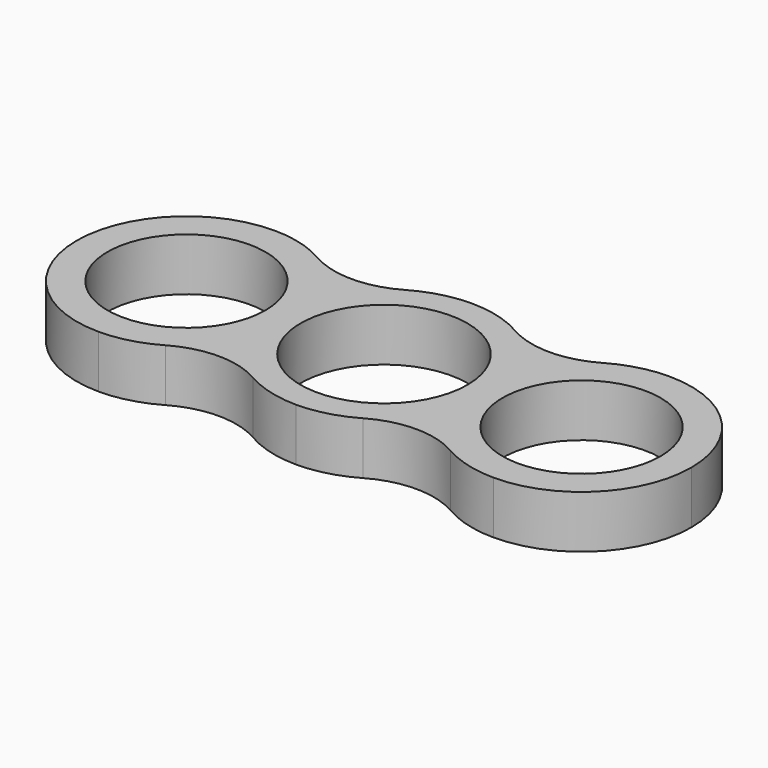
from build123d import *

# Parameters (mm, degrees)
F0_R     = 9
F0_R_2   = 9.5
F1_DEPTH = 3
F3_DEPTH = 6.001


with BuildPart() as f1:
    # F0 (on Top) → F1 (new body, symmetric)
    with BuildSketch(Plane.XY):
        with BuildLine():
            Line((22.5, 12.5), (-22.5, 12.5))
            ThreePointArc((-22.5, 12.5), (-31.338835, 8.838835), (-35, 0))
            ThreePointArc((-35, 0), (-31.338835, -8.838835), (-22.5, -12.5))
            Line((-22.5, -12.5), (22.5, -12.5))
            ThreePointArc((22.5, -12.5), (31.338835, -8.838835), (35, 0))
            ThreePointArc((35, 0), (31.338835, 8.838835), (22.5, 12.5))
        make_face()
        with Locations((-22.5, 0)):
            Circle(F0_R, mode=Mode.SUBTRACT)
        Circle(F0_R_2, mode=Mode.SUBTRACT)
        with Locations((22.5, 0)):
            Circle(F0_R, mode=Mode.SUBTRACT)
    extrude(amount=F1_DEPTH, both=True)

    # F2 (on face) → F3 (cut, through all)
    with BuildSketch(Plane.XY.offset(3)):
        with BuildLine():
            Line((22.5, 12.5), (0, 12.5))
            ThreePointArc((0, 12.5), (3.235238, 12.074073), (6.25, 10.825318))
            ThreePointArc((6.25, 10.825318), (11.25, 9.485572), (16.25, 10.825318))
            ThreePointArc((16.25, 10.825318), (19.264762, 12.074073), (22.5, 12.5))
        make_face()
        with BuildLine():
            ThreePointArc((-22.5, 12.5), (-19.264762, 12.074073), (-16.25, 10.825318))
            ThreePointArc((-16.25, 10.825318), (-11.25, 9.485572), (-6.25, 10.825318))
            ThreePointArc((-6.25, 10.825318), (-3.235238, 12.074073), (0, 12.5))
            Line((0, 12.5), (-22.5, 12.5))
        make_face()
        with BuildLine():
            ThreePointArc((6.25, -10.825318), (3.235238, -12.074073), (0, -12.5))
            Line((0, -12.5), (22.5, -12.5))
            ThreePointArc((22.5, -12.5), (19.264762, -12.074073), (16.25, -10.825318))
            ThreePointArc((16.25, -10.825318), (11.25, -9.485572), (6.25, -10.825318))
        make_face()
        with BuildLine():
            ThreePointArc((-16.25, -10.825318), (-19.264762, -12.074073), (-22.5, -12.5))
            Line((-22.5, -12.5), (0, -12.5))
            ThreePointArc((0, -12.5), (-3.235238, -12.074073), (-6.25, -10.825318))
            ThreePointArc((-6.25, -10.825318), (-11.25, -9.485572), (-16.25, -10.825318))
        make_face()
    extrude(amount=-F3_DEPTH, mode=Mode.SUBTRACT)


solid = f1.part
